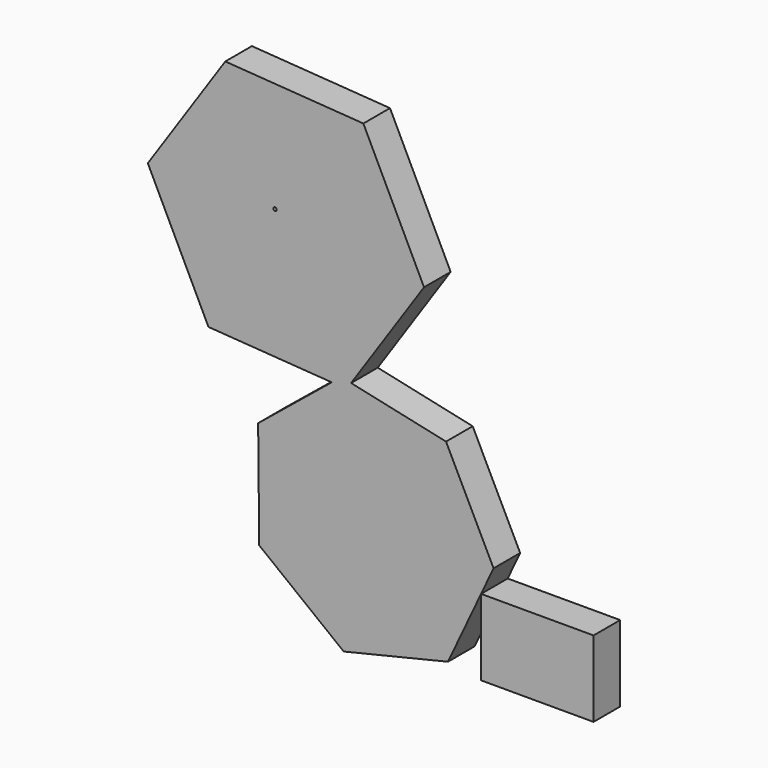
from build123d import *

# Parameters (mm, degrees)
F0_W     = 85.8063161263
F0_H     = 58.0885795211
F1_DEPTH = 25.4
F3_D     = 2.54


with BuildPart() as f1:
    # F0 (on Front) → F1 (new body)
    with BuildSketch(Plane.XZ):
        with Locations((25.3664523418, 8.6970223713)):
            Rectangle(F0_W, F0_H)
    extrude(amount=F1_DEPTH)


with BuildPart() as f1b:
    # F0 (on Front) → F1, piece 2 (new body)
    with BuildSketch(Plane.XZ):
        Polygon((-131.5015144818, 142.773748151), (-187.6168112916, 97.095707431), (-186.7969882742, 15.3044549322), (-122.3388607894, -35.050593437), (-42.7807135395, -16.0510591987), (-17.5367057214, 37.7413121318), (-8.0314540941, 57.9960208457), (-44.2579835713, 131.3316851377), (-116.6939098888, 147.1025812771), (-120.1541121892, 141.9763821052), align=None)
        Polygon((-225.5105666501, 149.3796324108), (-131.5015144818, 142.773748151), (-124.1809863883, 148.7326826904), (-116.6939098888, 147.1025812771), (-61.0644821235, 229.5161229683), (-107.3313065188, 324.4591141369), (-212.6877609798, 331.8623644425), (-271.7773910454, 244.3226235794), align=None)
        Polygon((-124.1809863883, 148.7326826904), (-131.5015144818, 142.773748151), (-120.1541121892, 141.9763821052), (-116.6939098888, 147.1025812771), align=None)
    extrude(amount=F1_DEPTH)

    # F3 (through all)
    with Locations(Plane(origin=(0, 0, 0), x_dir=(-1, 0, 0), z_dir=(0, 1, 0))):
        with Locations((174.7671812773, 245.0156211853)):
            Hole(F3_D / 2)


solid = Compound([f1.part, f1b.part])
